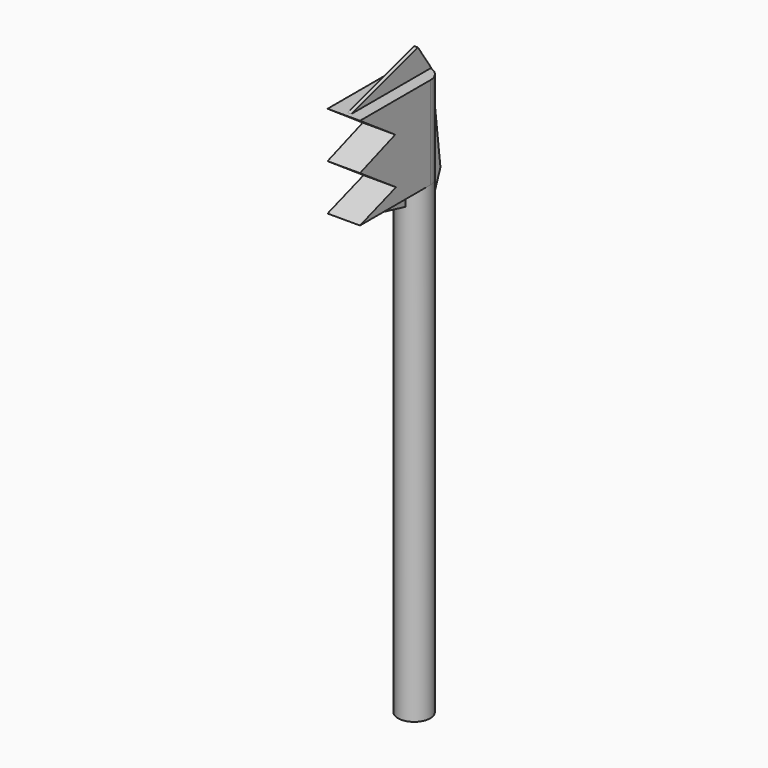
from build123d import *

# Parameters (mm, degrees)
F0_W     = 8.511868917
F0_H     = 23.0781268328
F1_DEPTH = 24.2
F3_DEPTH = 25
F4_R     = 4.2327268103
F5_DEPTH = 123.2
F7_DEPTH = 1


with BuildPart() as f1:
    # F0 (on Top) → F1 (new body)
    with BuildSketch(Plane.XY):
        with Locations((0, -11.5390634164)):
            Rectangle(F0_W, F0_H)
        with BuildLine():
            Line((-4.2559344585, 0), (4.2559344585, 0))
            ThreePointArc((4.2559344585, 0), (0, 4.2559344585), (-4.2559344585, 0))
        make_face()
    extrude(amount=F1_DEPTH)

    # F2 (on face) → F3 (cut)
    with BuildSketch(Plane.YZ.offset(4.2559344585)):
        Polygon((-11.5390634164, 16.2968765944), (-23.0781268328, 24.2), (-23.0781268328, 12.1), align=None)
        Polygon((-11.2656261772, 4.0468750522), (-23.0781268328, 12.1), (-23.0781268328, 0), align=None)
    extrude(amount=-F3_DEPTH, mode=Mode.SUBTRACT)

    # F4 (on face) → F5 (join)
    with BuildSketch(Plane(origin=(0, 0, 0), x_dir=(1, 0, 0), z_dir=(0, 0, -1))):
        Circle(F4_R)
    extrude(amount=F5_DEPTH)

    # F6 (on Right) → F7 (join)
    with BuildSketch(Plane.YZ):
        Polygon((0, 30.673397705), (-22.4007293582, 24.0254402161), (4.4801449403, 24.0254402161), align=None)
        Polygon((0, 0), (-22.4007293582, 0), (0, -5.4568112828), align=None)
    extrude(amount=F7_DEPTH)

    # F6 (on Right) → F7, piece 2 (join)
    with BuildSketch(Plane.YZ):
        Polygon((7.370563224, 0), (4.4801449403, 24.0254402161), (4.4801449403, -7.4801021256), align=None)
    extrude(amount=F7_DEPTH)


solid = f1.part
